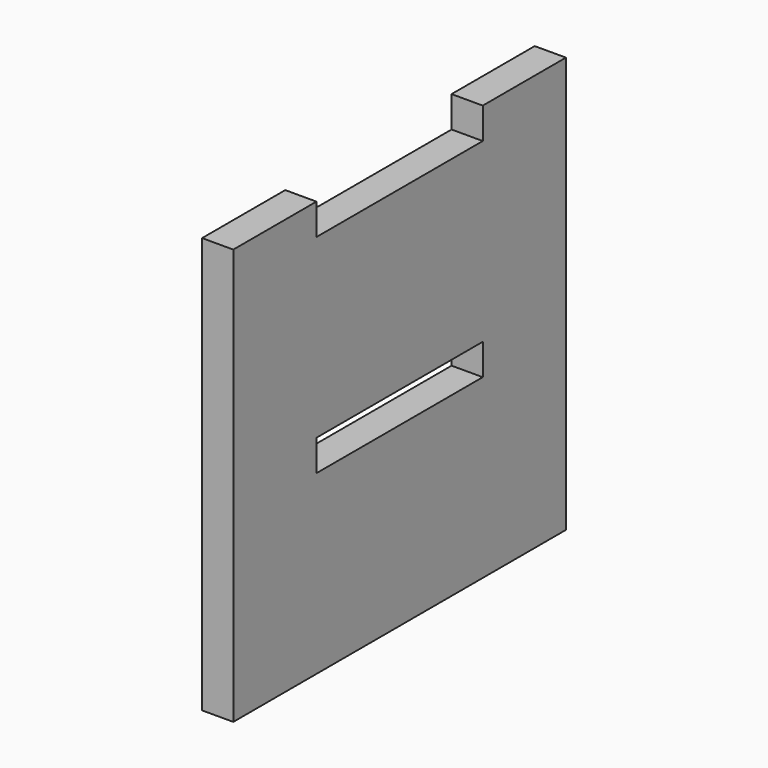
from build123d import *

# Parameters (mm, degrees)
F1_W     = 20
F1_H     = 3
F2_DEPTH = 3


with BuildPart() as f2:
    # F1 (on Right) → F2 (new body)
    with BuildSketch(Plane.YZ):
        Polygon((-20, -20), (20, -20), (20, 20), (10, 20), (10, 17), (-10, 17), (-10, 20), (-20, 20), align=None)
        with Locations((0, -1.5)):
            Rectangle(F1_W, F1_H, mode=Mode.SUBTRACT)
    extrude(amount=-F2_DEPTH)


solid = f2.part
